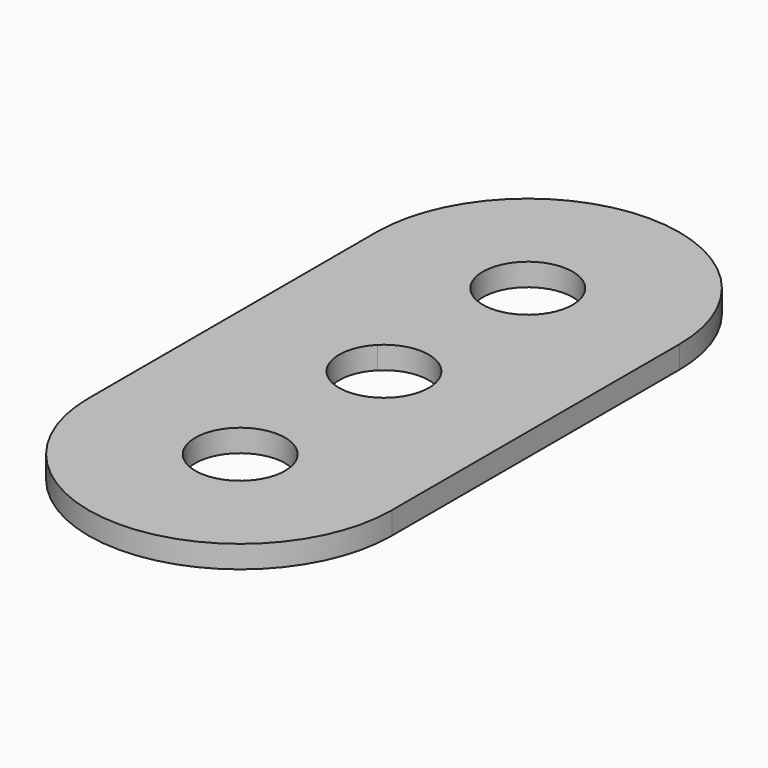
from build123d import *

# Parameters (mm, degrees)
F0_R     = 3.995
F1_DEPTH = 2
F2_DEPTH = 25


with BuildPart() as f1:
    # F0 (on Top) → F1 (new body)
    with BuildSketch(Plane.XY):
        with BuildLine():
            Line((-13.49, -29.49), (13.49, -29.49))
            Line((13.49, -29.49), (13.49, -15.9924751222))
            ThreePointArc((13.49, -15.9924751222), (0, -29.4824751222), (-13.49, -15.9924751222))
            Line((-13.49, -15.9924751222), (-13.49, -29.49))
        make_face()
        with BuildLine():
            ThreePointArc((2.8439841916, -2.8056690678), (10.4963195156, -7.5185517908), (13.49, -15.9924751222))
            Line((13.49, -15.9924751222), (13.49, 16))
            ThreePointArc((13.49, 16), (10.4943486529, 7.5236360182), (2.8378508003, 2.8118726562))
            ThreePointArc((2.8378508003, 2.8118726563), (3.6944038049, 1.5203307293), (3.995, 0))
            ThreePointArc((3.995, 0), (3.6960615421, -1.5162961707), (2.8439841916, -2.8056690678))
        make_face()
        with BuildLine():
            ThreePointArc((-13.49, -15.9924751222), (0, -29.4824751222), (13.49, -15.9924751222))
            ThreePointArc((13.49, -15.9924751222), (10.4963195156, -7.5185517908), (2.8439841916, -2.8056690678))
            ThreePointArc((2.8439841916, -2.8056690678), (0, -3.995), (-2.8439841916, -2.8056690678))
            ThreePointArc((-2.8439841916, -2.8056690678), (-10.4963195156, -7.5185517908), (-13.49, -15.9924751222))
        make_face()
        with Locations((0, -15.9924751222)):
            Circle(F0_R, mode=Mode.SUBTRACT)
        with BuildLine():
            Line((-13.49, 16.000000062), (-13.49, -15.9924751222))
            ThreePointArc((-13.49, -15.9924751222), (-10.4963195156, -7.5185517908), (-2.8439841916, -2.8056690678))
            ThreePointArc((-2.8439841916, -2.8056690678), (-3.9949976188, 0.0043618516), (-2.8378508003, 2.8118726563))
            ThreePointArc((-2.8378508003, 2.8118726562), (-10.4943486724, 7.5236360423), (-13.49, 16.000000062))
        make_face()
        with BuildLine():
            ThreePointArc((0, 29.49), (9.5388704782, 25.5388704782), (13.49, 16))
            Line((13.49, 16), (13.49, 29.49))
            Line((13.49, 29.49), (0, 29.49))
        make_face()
        with BuildLine():
            ThreePointArc((2.8378508003, 2.8118726562), (10.4943486529, 7.5236360182), (13.49, 16))
            ThreePointArc((13.49, 16), (9.5388704782, 25.5388704782), (0, 29.49))
            ThreePointArc((0, 29.49), (-9.5388704563, 25.5388705001), (-13.49, 16.000000062))
            ThreePointArc((-13.49, 16.000000062), (-10.4943486724, 7.5236360423), (-2.8378508003, 2.8118726562))
            ThreePointArc((-2.8378508003, 2.8118726563), (0, 3.995), (2.8378508003, 2.8118726563))
        make_face()
        with Locations((0, 16)):
            Circle(F0_R, mode=Mode.SUBTRACT)
        with BuildLine():
            Line((-13.49, 29.49), (-13.49, 16.000000062))
            ThreePointArc((-13.49, 16.000000062), (-9.5388704563, 25.5388705001), (0, 29.49))
            Line((0, 29.49), (-13.49, 29.49))
        make_face()
    extrude(amount=F1_DEPTH)

    # F0 (on Top) → F2 (cut)
    with BuildSketch(Plane.XY):
        with BuildLine():
            ThreePointArc((0, 29.49), (9.5388704782, 25.5388704782), (13.49, 16))
            Line((13.49, 16), (13.49, 29.49))
            Line((13.49, 29.49), (0, 29.49))
        make_face()
        with BuildLine():
            Line((-13.49, -29.49), (13.49, -29.49))
            Line((13.49, -29.49), (13.49, -15.9924751222))
            ThreePointArc((13.49, -15.9924751222), (0, -29.4824751222), (-13.49, -15.9924751222))
            Line((-13.49, -15.9924751222), (-13.49, -29.49))
        make_face()
        with BuildLine():
            Line((-13.49, -29.49), (13.49, -29.49))
            Line((13.49, -29.49), (13.49, -15.9924751222))
            ThreePointArc((13.49, -15.9924751222), (0, -29.4824751222), (-13.49, -15.9924751222))
            Line((-13.49, -15.9924751222), (-13.49, -29.49))
        make_face()
        with BuildLine():
            Line((-13.49, 29.49), (-13.49, 16.000000062))
            ThreePointArc((-13.49, 16.000000062), (-9.5388704563, 25.5388705001), (0, 29.49))
            Line((0, 29.49), (-13.49, 29.49))
        make_face()
    extrude(amount=F2_DEPTH, mode=Mode.SUBTRACT)


solid = f1.part
